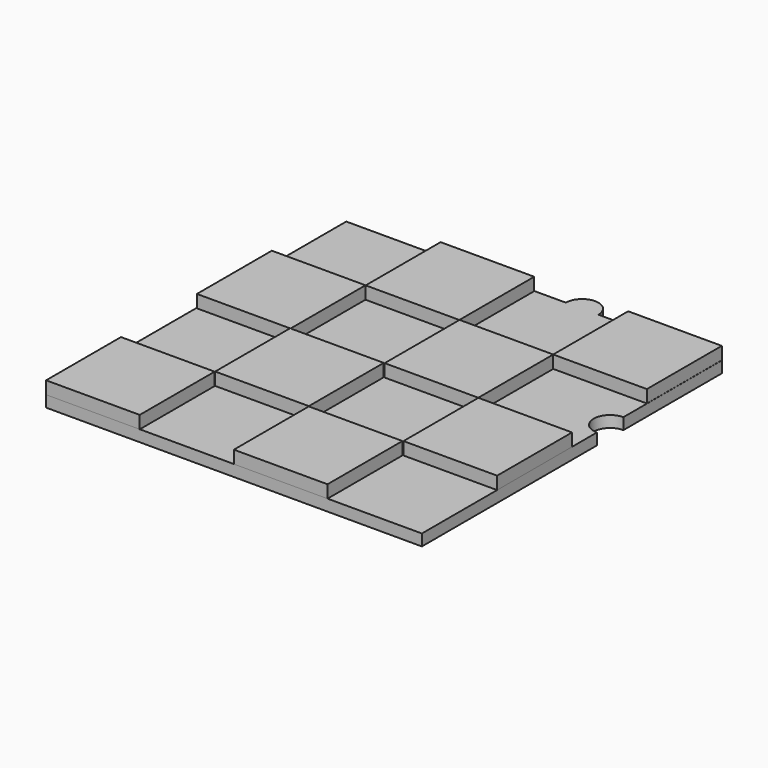
from build123d import *

# Parameters (mm, degrees)
F0_W     = 18.7340527773
F0_H     = 18.7340471894
F1_DEPTH = 2.54
F0_W_2   = 0.1046992838
F0_H_2   = 0.0142469071
F2_W     = 75.1572456211
F2_H     = 75.0327724963
F3_DEPTH = 2.286
F5_DEPTH = 25.4
F6_DEPTH = 2.286


with BuildPart() as f1:
    # F0 (on Top) → F1 (new body)
    with BuildSketch(Plane.XY):
        with Locations((-2.4223788641, 39.23638165)):
            Rectangle(F0_W, F0_H)
    extrude(amount=F1_DEPTH)


with BuildPart() as f1b:
    # F0 (on Top) → F1, piece 2 (new body)
    with BuildSketch(Plane.XY):
        with Locations((-21.265367046, -17.0743810013)):
            Rectangle(F0_W, F0_H)
    extrude(amount=F1_DEPTH)


with BuildPart() as f1c:
    # F0 (on Top) → F1, piece 3 (new body)
    with BuildSketch(Plane.XY):
        with Locations((-58.83359164, -17.073973082)):
            Rectangle(F0_W, F0_H)
    extrude(amount=F1_DEPTH)


with BuildPart() as f1d:
    # F0 (on Top) → F1, piece 4 (new body)
    with BuildSketch(Plane.XY):
        Polygon((-49.4274608791, 11.0997995362), (-49.4274608791, 11.1140464433), (-49.3227615952, 11.1140464433), (-49.3227615952, 29.8338467255), (-68.0568143725, 29.8338467255), (-68.0568143725, 11.0997995362), align=None)
        Polygon((-30.6934081018, 11.1140464433), (-49.3227615952, 11.1140464433), (-49.3227615952, 11.0997995362), (-49.4274608791, 11.0997995362), (-49.4274608791, -7.6200007461), (-30.6934081018, -7.6200007461), align=None)
        with Locations((-49.3751112372, 11.1069229897)):
            Rectangle(F0_W_2, F0_H_2)
    extrude(amount=F1_DEPTH)


with BuildPart() as f1e:
    # F0 (on Top) → F1, piece 5 (new body)
    with BuildSketch(Plane.XY):
        with Locations((-2.3914091289, 1.7470228486)):
            Rectangle(F0_W, F0_H)
    extrude(amount=F1_DEPTH)


with BuildPart() as f1f:
    # F0 (on Top) → F1, piece 6 (new body)
    with BuildSketch(Plane.XY):
        with Locations((-39.907887578, 39.1931300983)):
            Rectangle(F0_W, F0_H)
    extrude(amount=F1_DEPTH)


with BuildPart() as f1g:
    # F0 (on Top) → F1, piece 7 (new body)
    with BuildSketch(Plane.XY):
        with Locations((-21.1564316414, 20.5023344606)):
            Rectangle(F0_W, F0_H)
    extrude(amount=F1_DEPTH)


with BuildPart() as f3:
    # F2 (on Top) → F3 (new body)
    with BuildSketch(Plane.XY):
        with Locations((-30.6088821962, 11.0900280997)):
            Rectangle(F2_W, F2_H)
    extrude(amount=-F3_DEPTH)

    # F4 (on face) → F5 (cut)
    with BuildSketch(Plane.XY):
        with BuildLine():
            Line((6.9697406143, 17.3514315808), (6.9697406143, 23.9753789085))
            ThreePointArc((6.9697406143, 23.9753789085), (3.6577669504, 20.6634052446), (6.9697406143, 17.3514315808))
        make_face()
    extrude(amount=-F5_DEPTH, mode=Mode.SUBTRACT)

    # F4 (on face) → F6 (join)
    with BuildSketch(Plane.XY):
        with BuildLine():
            Line((-24.2592524755, 48.6064143479), (-17.7314524755, 48.6064143479))
            ThreePointArc((-17.7314524755, 48.6064143479), (-20.9953524755, 51.8703143479), (-24.2592524755, 48.6064143479))
        make_face()
    extrude(amount=-F6_DEPTH)


solid = Compound([f1.part, f1b.part, f1c.part, f1d.part, f1e.part, f1f.part, f1g.part, f3.part])
